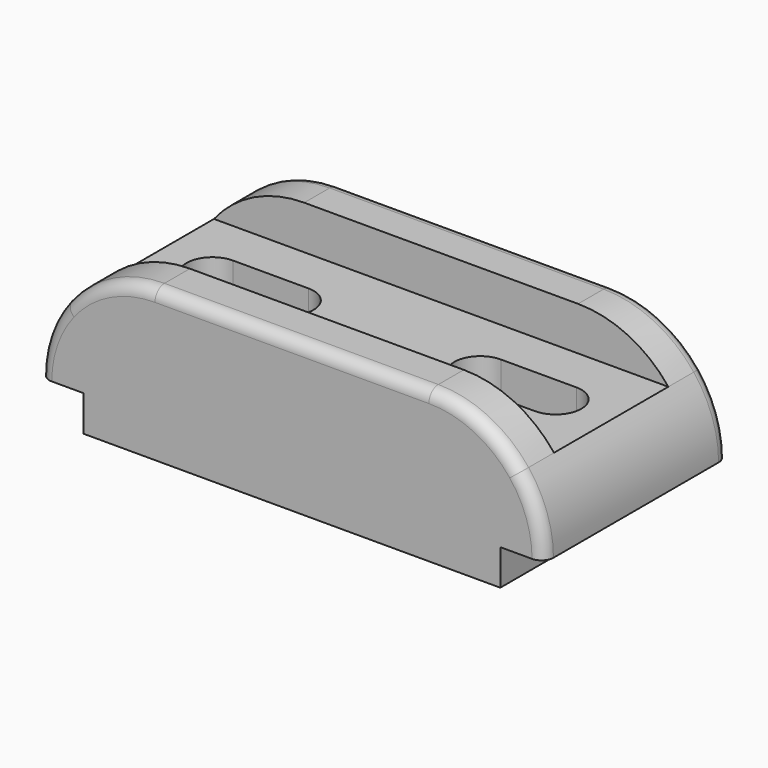
from build123d import *

# Parameters (mm, degrees)
F1_DEPTH = 29
F2_DEPTH = 18
F4_DEPTH = 27.001
F5_R     = 3


with BuildPart() as f1:
    # F0 (on Front) → F1 (new body, symmetric)
    with BuildSketch(Plane.XZ):
        with BuildLine():
            Line((-52.5, 9), (-52.5, 0))
            Line((-52.5, 0), (52.5, 0))
            Line((52.5, 0), (52.5, 9))
            Line((52.5, 9), (63.5, 9))
            ThreePointArc((63.5, 9), (61.8897, 18.529129), (57.237634, 27))
            Line((57.237634, 27), (-57.237634, 27))
            ThreePointArc((-57.237634, 27), (-61.8897, 18.529129), (-63.5, 9))
            Line((-63.5, 9), (-52.5, 9))
        make_face()
        with BuildLine():
            ThreePointArc((-34.5, 38), (-47.129331, 35.105555), (-57.237634, 27))
            Line((-57.237634, 27), (57.237634, 27))
            ThreePointArc((57.237634, 27), (47.129331, 35.105555), (34.5, 38))
            Line((34.5, 38), (-34.5, 38))
        make_face()
    extrude(amount=F1_DEPTH, both=True)

    # F0 (on Front) → F2 (cut, symmetric)
    with BuildSketch(Plane.XZ):
        with BuildLine():
            ThreePointArc((-34.5, 38), (-47.129331, 35.105555), (-57.237634, 27))
            Line((-57.237634, 27), (57.237634, 27))
            ThreePointArc((57.237634, 27), (47.129331, 35.105555), (34.5, 38))
            Line((34.5, 38), (-34.5, 38))
        make_face()
    extrude(amount=F2_DEPTH, both=True, mode=Mode.SUBTRACT)

    # F3 (on face) → F4 (cut, through all)
    with BuildSketch(Plane.XY.offset(27)):
        with BuildLine():
            ThreePointArc((43.237634, -6.5), (49.737634, 0), (43.237634, 6.5))
            Line((43.237634, 6.5), (24.237634, 6.5))
            ThreePointArc((24.237634, 6.5), (17.737634, 0), (24.237634, -6.5))
            Line((24.237634, -6.5), (43.237634, -6.5))
        make_face()
        with BuildLine():
            ThreePointArc((-43.237634, 6.5), (-49.737634, 0), (-43.237634, -6.5))
            Line((-43.237634, -6.5), (-24.237634, -6.5))
            ThreePointArc((-24.237634, -6.5), (-17.737634, 0), (-24.237634, 6.5))
            Line((-24.237634, 6.5), (-43.237634, 6.5))
        make_face()
    extrude(amount=-F4_DEPTH, mode=Mode.SUBTRACT)

    # F5
    f5_edges = [f1.edges().sort_by_distance(p)[0] for p in [
        (0, -29, 38),
        (0, 29, 38),
    ]]
    fillet(f5_edges, radius=F5_R)


solid = f1.part
